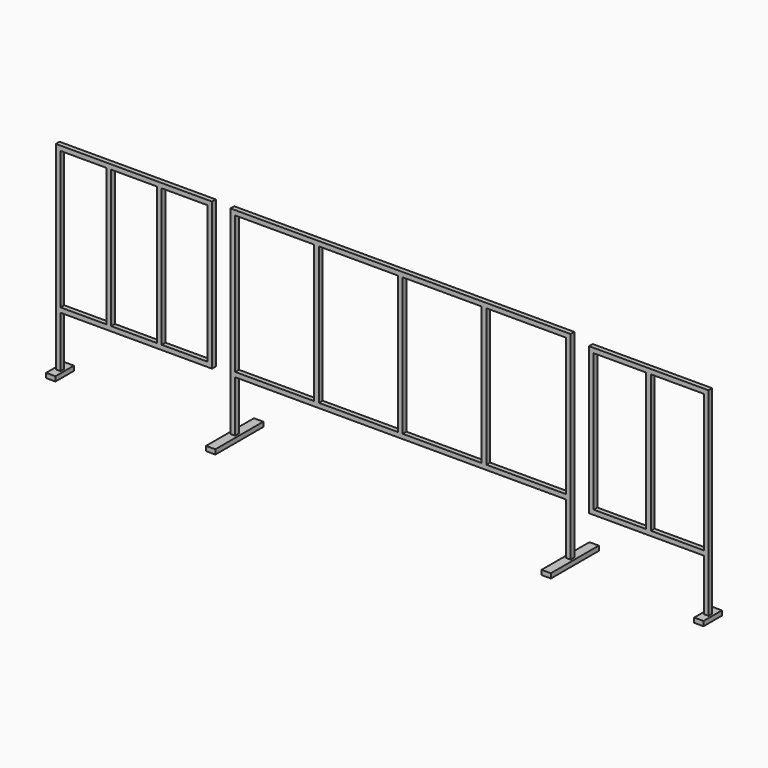
from build123d import *

# Parameters (mm, degrees)
F1_DEPTH  = 25.4
F2_W      = 430
F2_H      = 749.2
F2_W_2    = 433
F3_DEPTH  = 25.4
F4_W      = 50.8
F4_H      = 325.4
F5_DEPTH  = 25.4
F7_DEPTH  = 25
F8_W      = 285
F8_H      = 749.2
F8_W_2    = 288.8
F9_DEPTH  = 26
F10_W     = 250
F10_H     = 749.2
F10_W_2   = 248.4
F11_DEPTH = 25.4
F12_W     = 50.8
F12_H     = 125
F13_DEPTH = 25.4
F14_W     = 50.8
F14_H     = 125.4
F15_DEPTH = 25.4


with BuildPart() as f1:
    # F0 (on Front) → F1 (new body)
    with BuildSketch(Plane.XZ):
        Polygon((-686.656185, 676.669861), (-686.656185, -403.330139), (-661.256185, -403.330139), (-661.256185, -123.330139), (1137.943815, -123.330139), (1137.943815, -403.330139), (1163.343815, -403.330139), (1163.343815, 676.669861), align=None)
    extrude(amount=-F1_DEPTH)

    # F2 (on face) → F3 (cut)
    with BuildSketch(Plane.XZ):
        with Locations((9.143815, 276.669861)):
            Rectangle(F2_W, F2_H)
        with Locations((464.543815, 276.669861)):
            Rectangle(F2_W, F2_H)
        with Locations((921.443815, 276.669861)):
            Rectangle(F2_W_2, F2_H)
        with Locations((-446.256185, 276.669861)):
            Rectangle(F2_W, F2_H)
    extrude(amount=-F3_DEPTH, mode=Mode.SUBTRACT)

    # F4 (on face) → F5 (join)
    with BuildSketch(Plane(origin=(0, 0, -403.330139), x_dir=(1, 0, 0), z_dir=(0, 0, -1))):
        with Locations((1150.643815, -12.7)):
            Rectangle(F4_W, F4_H)
        with Locations((-673.956185, -12.7)):
            Rectangle(F4_W, F4_H)
    extrude(amount=F5_DEPTH)


with BuildPart() as f7:
    # F6 (on face) → F7 (new body)
    with BuildSketch(Plane.XZ):
        Polygon((1913.343815, 651.269861), (1263.343815, 651.269861), (1263.343815, -148.730139), (1887.943815, -148.730139), (1887.943815, -428.730139), (1913.343815, -428.730139), align=None)
    extrude(amount=-F7_DEPTH)

    # F8 (on face) → F9 (cut)
    with BuildSketch(Plane.XZ):
        with Locations((1431.243815, 251.269861)):
            Rectangle(F8_W, F8_H)
        with Locations((1743.543815, 251.269861)):
            Rectangle(F8_W_2, F8_H)
    extrude(amount=-F9_DEPTH, mode=Mode.SUBTRACT)

    # F12 (on face) → F13 (join)
    with BuildSketch(Plane(origin=(0, 0, -428.730139), x_dir=(1, 0, 0), z_dir=(0, 0, -1))):
        with Locations((1900.643815, -12.5)):
            Rectangle(F12_W, F12_H)
    extrude(amount=F13_DEPTH)


with BuildPart() as f11:
    # F10 (on face) → F11 (new body)
    with BuildSketch(Plane.XZ):
        Polygon((-786.656185, -123.330139), (-786.656185, 676.669861), (-1636.656185, 676.669861), (-1636.656185, -403.330139), (-1611.256185, -403.330139), (-1611.256185, -123.330139), align=None)
        with Locations((-1486.256185, 276.669861)):
            Rectangle(F10_W, F10_H, mode=Mode.SUBTRACT)
        with Locations((-1210.856185, 276.669861)):
            Rectangle(F10_W, F10_H, mode=Mode.SUBTRACT)
        with Locations((-936.256185, 276.669861)):
            Rectangle(F10_W_2, F10_H, mode=Mode.SUBTRACT)
    extrude(amount=-F11_DEPTH)

    # F14 (on face) → F15 (join)
    with BuildSketch(Plane(origin=(0, 0, -403.330139), x_dir=(1, 0, 0), z_dir=(0, 0, -1))):
        with Locations((-1623.956185, -12.7)):
            Rectangle(F14_W, F14_H)
    extrude(amount=F15_DEPTH)


solid = Compound([f1.part, f7.part, f11.part])
